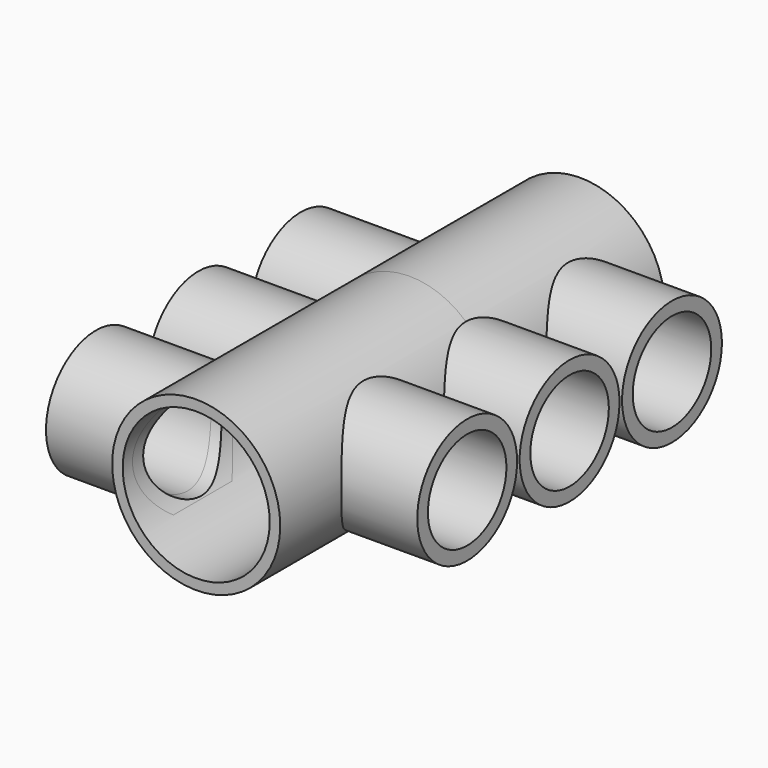
from build123d import *

# Parameters (mm, degrees)
F2_R          = 58.5
F2_R_2        = 46
F5_DEPTH      = 100
F3_R          = 58.5
F3_R_2        = 46
F6_DEPTH      = 100
F4_R          = 78.7814581184
F4_R_2        = 68.9218429386
F7_DEPTH      = 250
F7_DEPTH_BACK = 200
F8_DEPTH      = 200.0010001
F8_DEPTH_BACK = 250.0010001
F9_DEPTH      = 150
F10_DEPTH     = 150


with BuildPart() as f5:
    # F2 (on offset) → F5 (new body)
    with BuildSketch(Plane.YZ.offset(150)):
        Circle(F2_R)
        Circle(F2_R_2, mode=Mode.SUBTRACT)
    extrude(amount=-F5_DEPTH)



with BuildPart() as f5b:
    # F2 (on offset) → F5, piece 2 (new body)
    with BuildSketch(Plane.YZ.offset(150)):
        with Locations((120, 0)):
            Circle(F2_R)
        with Locations((120, 0)):
            Circle(F2_R_2, mode=Mode.SUBTRACT)
    extrude(amount=-F5_DEPTH)


with BuildPart() as f5c:
    # F2 (on offset) → F5, piece 3 (new body)
    with BuildSketch(Plane.YZ.offset(150)):
        with Locations((-120, 0)):
            Circle(F2_R)
        with Locations((-120, 0)):
            Circle(F2_R_2, mode=Mode.SUBTRACT)
    extrude(amount=-F5_DEPTH)


with BuildPart() as f6:
    # F3 (on offset) → F6 (new body)
    with BuildSketch(Plane.YZ.offset(-150)):
        with Locations((60, 0)):
            Circle(F3_R)
        with Locations((60, 0)):
            Circle(F3_R_2, mode=Mode.SUBTRACT)
    extrude(amount=F6_DEPTH)


with BuildPart() as f6b:
    # F3 (on offset) → F6, piece 2 (new body)
    with BuildSketch(Plane.YZ.offset(-150)):
        with Locations((-60, 0)):
            Circle(F3_R)
        with Locations((-60, 0)):
            Circle(F3_R_2, mode=Mode.SUBTRACT)
    extrude(amount=F6_DEPTH)


with BuildPart() as f6c:
    # F3 (on offset) → F6, piece 3 (new body)
    with BuildSketch(Plane.YZ.offset(-150)):
        with Locations((-180, 0)):
            Circle(F3_R)
        with Locations((-180, 0)):
            Circle(F3_R_2, mode=Mode.SUBTRACT)
    extrude(amount=F6_DEPTH)


with BuildPart() as f5_1:
    add(f5.part)

    add(f5b.part)  # F7 merges F5b

    add(f5c.part)  # F7 merges F5c

    add(f6.part)  # F7 merges F6

    add(f6b.part)  # F7 merges F6b

    add(f6c.part)  # F7 merges F6c
    # F4 (on Front) → F7 (join, two sides)
    with BuildSketch(Plane.XZ) as f7_sk:
        Circle(F4_R)
        Circle(F4_R_2, mode=Mode.SUBTRACT)
    extrude(amount=F7_DEPTH)
    extrude(f7_sk.sketch, amount=-F7_DEPTH_BACK)

    # F4 (on Front) → F8 (cut, two sides)
    with BuildSketch(Plane.XZ) as f8_sk:
        Circle(F4_R_2)
    extrude(amount=-F8_DEPTH, mode=Mode.SUBTRACT)
    extrude(f8_sk.sketch, amount=F8_DEPTH_BACK, mode=Mode.SUBTRACT)

    # F2 (on offset) → F9 (cut, through all)
    with BuildSketch(Plane.YZ.offset(150)):
        with Locations((120, 0)):
            Circle(F2_R_2)
        Circle(F2_R_2)
        with Locations((-120, 0)):
            Circle(F2_R_2)
    extrude(amount=-F9_DEPTH, mode=Mode.SUBTRACT)

    # F3 (on offset) → F10 (cut, through all)
    with BuildSketch(Plane.YZ.offset(-150)):
        with Locations((60, 0)):
            Circle(F3_R_2)
        with Locations((-60, 0)):
            Circle(F3_R_2)
        with Locations((-180, 0)):
            Circle(F3_R_2)
    extrude(amount=F10_DEPTH, mode=Mode.SUBTRACT)


solid = f5_1.part
